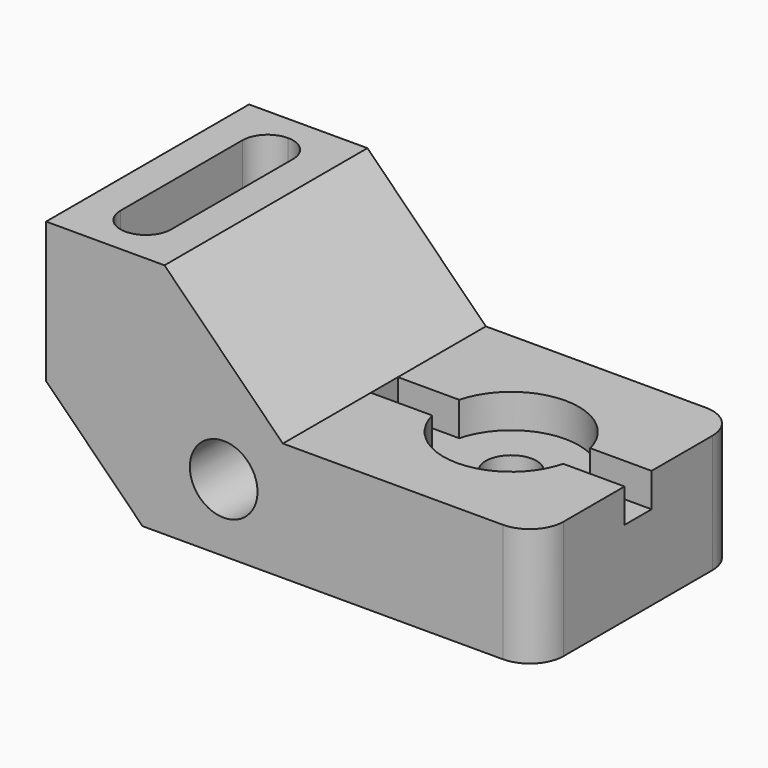
from build123d import *

# Parameters (mm, degrees)
F1_DEPTH       = 76.2
F3_DEPTH       = 27.94
F5_D           = 15.24
F5_CBORE_D     = 40.64
F5_CBORE_DEPTH = 10.16
F6_W           = 10.16
F6_H           = 10.16
F7_DEPTH       = 76.2
F8_R           = 10.16
F9_DEPTH       = 76.201
F10_R          = 10.16


with BuildPart() as f1:
    # F0 (on Front) → F1 (new body)
    with BuildSketch(Plane.XZ):
        Polygon((-28.956, 28.956), (0, 0), (118.364, 0), (118.364, 35.56), (42.164, 35.56), (6.604, 71.12), (-28.956, 71.12), align=None)
    extrude(amount=F1_DEPTH)

    # F2 (on face) → F3 (cut)
    with BuildSketch(Plane.XY.offset(71.12)):
        with BuildLine():
            ThreePointArc((-11.176, -7.62), (-16.564154, -9.851846), (-18.796, -15.24))
            Line((-18.796, -15.24), (-18.796, -60.96))
            ThreePointArc((-18.796, -60.96), (-16.564154, -66.348154), (-11.176, -68.58))
            ThreePointArc((-11.176, -68.58), (-5.787846, -66.348154), (-3.556, -60.96))
            Line((-3.556, -60.96), (-3.556, -15.24))
            ThreePointArc((-3.556, -15.24), (-5.787846, -9.851846), (-11.176, -7.62))
        make_face()
    extrude(amount=-F3_DEPTH, mode=Mode.SUBTRACT)

    # F5 (through all)
    with Locations(Plane.XY.offset(35.56)):
        with Locations((80.264, -38.1)):
            CounterBoreHole(F5_D / 2, F5_CBORE_D / 2, F5_CBORE_DEPTH)

    # F6 (on face) → F7 (cut)
    with BuildSketch(Plane.YZ.offset(118.364)):
        with Locations((-38.1, 30.48)):
            Rectangle(F6_W, F6_H)
    extrude(amount=-F7_DEPTH, mode=Mode.SUBTRACT)

    # F8 (on face) → F9 (cut, through all)
    with BuildSketch(Plane(origin=(0, 0, 0), x_dir=(-1, 0, 0), z_dir=(0, 1, 0))):
        with Locations((-24.384, 20.32)):
            Circle(F8_R)
    extrude(amount=-F9_DEPTH, mode=Mode.SUBTRACT)

    # F10
    f10_edges = [f1.edges().sort_by_distance(p)[0] for p in [
        (118.364, -76.2, 17.78),
        (118.364, 0, 17.78),
    ]]
    fillet(f10_edges, radius=F10_R)


solid = f1.part
